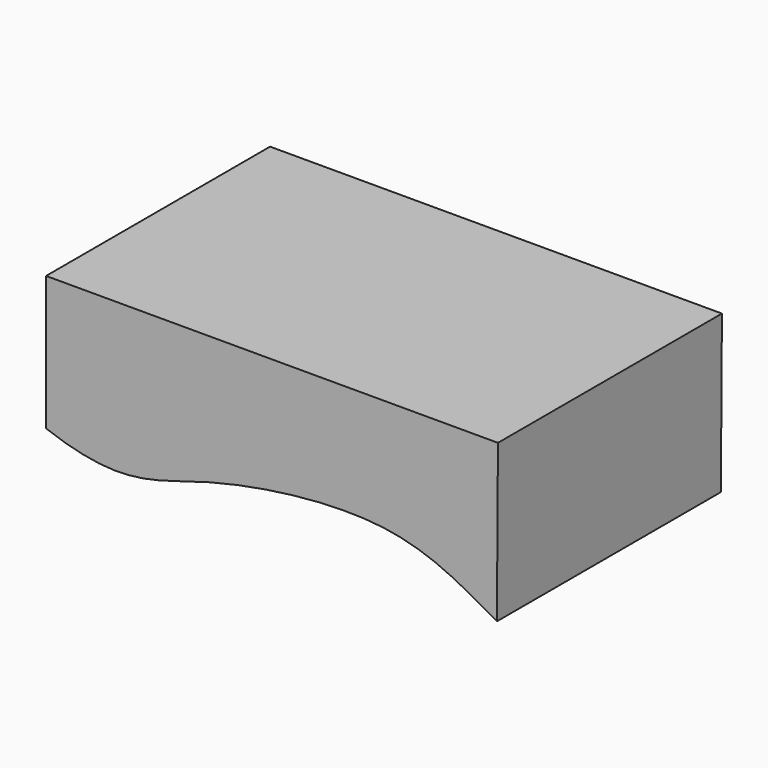
from build123d import *

# Parameters (mm, degrees)
F1_DEPTH = 36.83


with BuildPart() as f1:
    # F0 (on Front) → F1 (new body)
    with BuildSketch(Plane.XZ):
        with BuildLine():
            Line((-22.5829128176, 6.7246826366), (-22.5829128176, -10.9471213073))
            add(Edge.make_bspline(
                [(-22.5829128176, -10.9471213073), (-12.6231055776, -14.6051449056), (-3.9896084343, -9.7428727929), (22.4216451578, -5.9853535093), (31.4197673357, -10.8930738444), (36.7228575051, -13.9983184636)],
                knots=[0, 0, 0, 0, 0.3375394134, 0.6988874971, 1, 1, 1, 1], degree=3))
            Line((36.7228575051, -13.9983184636), (36.8601419032, 6.7246826366))
            Line((36.8601419032, 6.7246826366), (-22.5829128176, 6.7246826366))
        make_face()
        with BuildLine():
            Line((-22.5829128176, 6.7246826366), (-22.5829128176, -10.9471213073))
            add(Edge.make_bspline(
                [(-22.5829128176, -10.9471213073), (-12.6231055776, -14.6051449056), (-3.9896084343, -9.7428727929), (22.4216451578, -5.9853535093), (31.4197673357, -10.8930738444), (36.7228575051, -13.9983184636)],
                knots=[0, 0, 0, 0, 0.3375394134, 0.6988874971, 1, 1, 1, 1], degree=3))
            Line((36.7228575051, -13.9983184636), (36.8601419032, 6.7246826366))
            Line((36.8601419032, 6.7246826366), (-22.5829128176, 6.7246826366))
        make_face()
    extrude(amount=F1_DEPTH)


solid = f1.part
